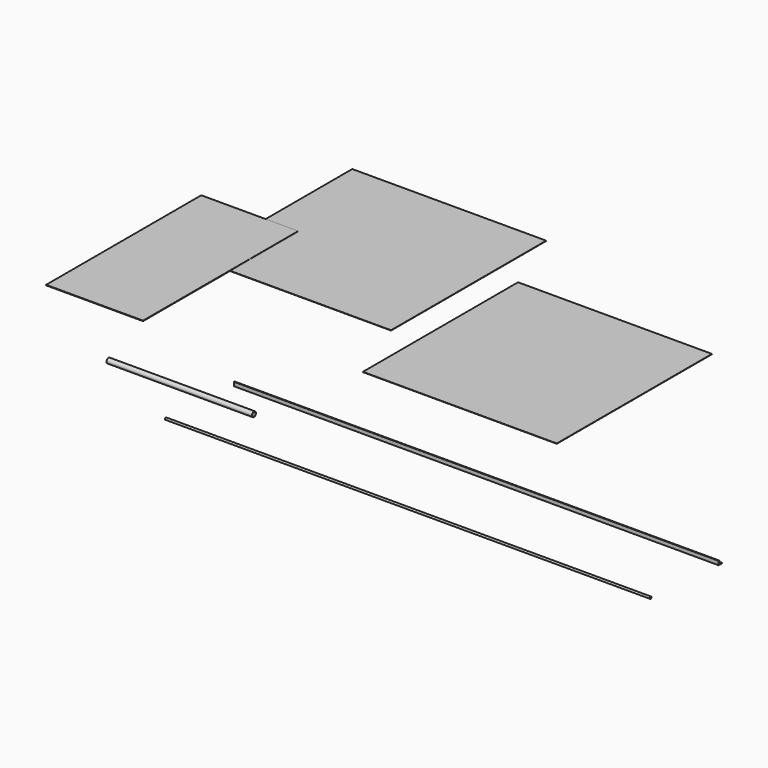
from build123d import *

# Parameters (mm, degrees)
F0_W      = 609.6
F0_H      = 1219.2
F6_DEPTH  = 3.03784
F1_W      = 1219.2
F1_H      = 1219.2
F7_DEPTH  = 1.89738
F2_W      = 1219.2
F2_H      = 1219.2
F8_DEPTH  = 1.89738
F3_W      = 3048
F3_H      = 25.4
F9_DEPTH  = 25.4
F4_W      = 914.4
F4_H      = 15.621
F11_R     = 13.081
F12_DEPTH = 3698.7757727905
F5_W      = 3048
F5_H      = 6.35
F14_W     = 20.6375
F14_H     = 20.6375
F15_DEPTH = 3048.001
F16_R     = 1.778


with BuildPart() as f6:
    # F0 (on Top) → F6 (new body)
    with BuildSketch(Plane.XY):
        with Locations((-1193.8568949782, 422.5071445107)):
            Rectangle(F0_W, F0_H)
    extrude(amount=F6_DEPTH)


with BuildPart() as f7:
    # F1 (on Top) → F7 (new body)
    with BuildSketch(Plane.XY):
        with Locations((-485.6167137623, 1105.116093429)):
            Rectangle(F1_W, F1_H)
    extrude(amount=F7_DEPTH)


with BuildPart() as f8:
    # F2 (on Top) → F8 (new body)
    with BuildSketch(Plane.XY):
        with Locations((901.6953110695, 673.4575437766)):
            Rectangle(F2_W, F2_H)
    extrude(amount=F8_DEPTH)


with BuildPart() as f9:
    # F3 (on Top) → F9 (new body)
    with BuildSketch(Plane.XY):
        with Locations((1414.8383377057, -435.8453452587)):
            Rectangle(F3_W, F3_H)
    extrude(amount=F9_DEPTH)

    # F14 (on face) → F15 (cut, through all)
    with BuildSketch(Plane(origin=(-109.1616622943, 0, 0), x_dir=(0, -1, 0), z_dir=(-1, 0, 0))):
        with Locations((433.4640952587, 15.08125)):
            Rectangle(F14_W, F14_H)
    extrude(amount=-F15_DEPTH, mode=Mode.SUBTRACT)

    # F16
    f16_edges = [f9.edges().sort_by_distance(p)[0] for p in [
        (1414.838338, -423.145345, 4.7625),
        (1414.838338, -443.782845, 25.4),
        (1414.838338, -448.545345, 25.4),
        (1414.838338, -423.145345, 0),
    ]]
    fillet(f16_edges, radius=F16_R)


with BuildPart() as f10:
    # F4 (on Top) → F10 (revolve)
    with BuildSketch(Plane.XY):
        with Locations((-302.7364350848, -612.0304689426)):
            Rectangle(F4_W, F4_H)
    revolve(axis=Axis((-302.7364350848, -619.8409689426, 0), (1, 0, 0)))

    # F11 (on face) → F12 (cut, through all)
    with BuildSketch(Plane(origin=(-759.9364350848, 0, 0), x_dir=(0, -1, 0), z_dir=(-1, 0, 0))):
        with Locations((619.8409689426, 0)):
            Circle(F11_R)
    extrude(amount=-F12_DEPTH, mode=Mode.SUBTRACT)


with BuildPart() as f13:
    # F5 (on Top) → F13 (revolve)
    with BuildSketch(Plane.XY):
        with Locations((1369.3187137015, -923.1372773647)):
            Rectangle(F5_W, F5_H)
    revolve(axis=Axis((1369.3187137015, -926.3122773647, 0), (1, 0, 0)))


solid = Compound([f6.part, f7.part, f8.part, f9.part, f10.part, f13.part])
